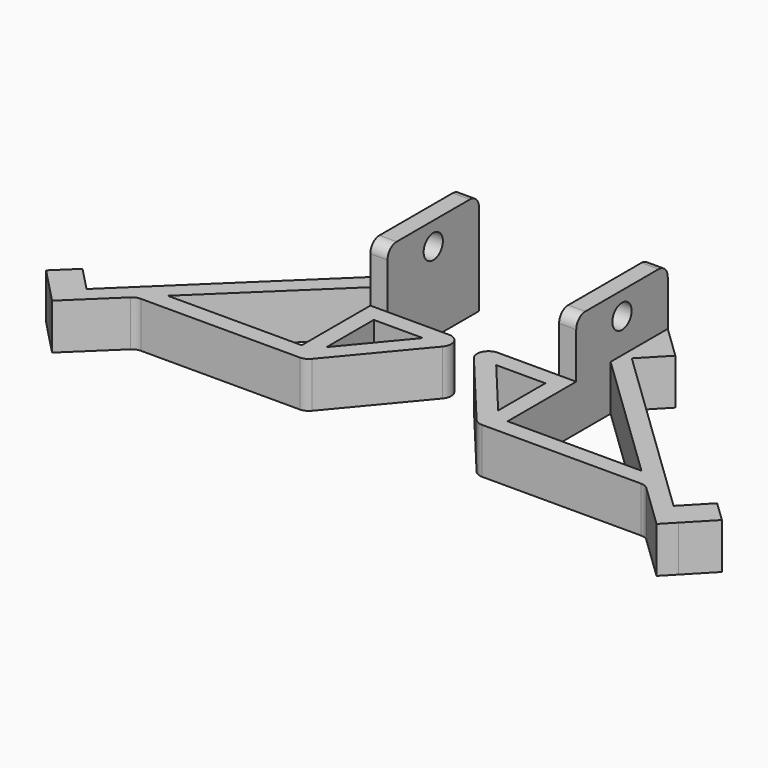
from build123d import *

# Parameters (mm, degrees)
F1_DEPTH = 8
F2_R     = 1.5
F3_DEPTH = 6.8
F4_W     = 3
F4_H     = 20
F5_DEPTH = 10
F6_R     = 2
F7_R     = 2.1
F8_DEPTH = 15.7309167747


with BuildPart() as f1:
    # F0 (on Top) → F1 (new body)
    with BuildSketch(Plane.XY):
        Polygon((-15, 20), (-18, 20), (-18, 11.6750785959), (-18, 7.5126178938), (-18, -15), (-18, -18), (-15, -18), (-15, -13.3138501945), (-15, -3), (-15, 0), align=None)
        Polygon((-18, 11.6750785959), (-18, 20), (-23.7658202006, 14.4542523124), (-19.6065094348, 10.129887162), align=None)
        Polygon((-18, 7.5126178938), (-18, 11.6750785959), (-19.6065094348, 10.129887162), (-51.3185205379, -20.37172512), (-54.9221581632, -23.8378174248), (-52.8425027804, -26), (-44.5250379041, -18), (-41.4059885755, -15), align=None)
        Polygon((0, 0), (-15, 0), (-15, -3), (-6.405124838, -3), (-15, -13.3138501945), (-15, -18), align=None)
        Polygon((-18, -18), (-18, -15), (-41.4059885755, -15), (-44.5250379041, -18), align=None)
        Polygon((-54.9221581632, -23.8378174248), (-51.3185205379, -20.37172512), (-55.4778313036, -16.0473599696), (-59.081468929, -19.5134522744), align=None)
    extrude(amount=F1_DEPTH)

    # F2 (on face) → F3 (cut)
    with BuildSketch(Plane(origin=(-18.6423655368, 19.3821525704, 0), x_dir=(-0.7207275251, -0.693218461, 0), z_dir=(-0.693218461, 0.7207275251, 0))):
        with Locations((53.6087262322, 4)):
            Circle(F2_R)
        with Locations((4.1087262322, 4)):
            Circle(F2_R)
    extrude(amount=-F3_DEPTH, mode=Mode.SUBTRACT)

    # F4 (on face) → F5 (join)
    with BuildSketch(Plane.XY.offset(8)):
        with Locations((-16.5, 10)):
            Rectangle(F4_W, F4_H)
    extrude(amount=F5_DEPTH)

    # F6
    f6_edges = [f1.edges().sort_by_distance(p)[0] for p in [
        (0, 0, 4),
        (-15, -18, 4),
        (-44.525038, -18, 4),
        (-16.5, 0, 18),
        (-16.5, 20, 18),
    ]]
    fillet(f6_edges, radius=F6_R)

    # F7 (on face) → F8 (cut, through all)
    with BuildSketch(Plane(origin=(-18, 0, 0), x_dir=(0, -1, 0), z_dir=(-1, 0, 0))):
        with Locations((-10, 14)):
            Circle(F7_R)
    extrude(amount=-F8_DEPTH, mode=Mode.SUBTRACT)


with BuildPart() as f9_1:
    # F9: instance of F1
    add(f1.part.mirror(Plane.YZ))


solid = Compound([f1.part, f9_1.part])
